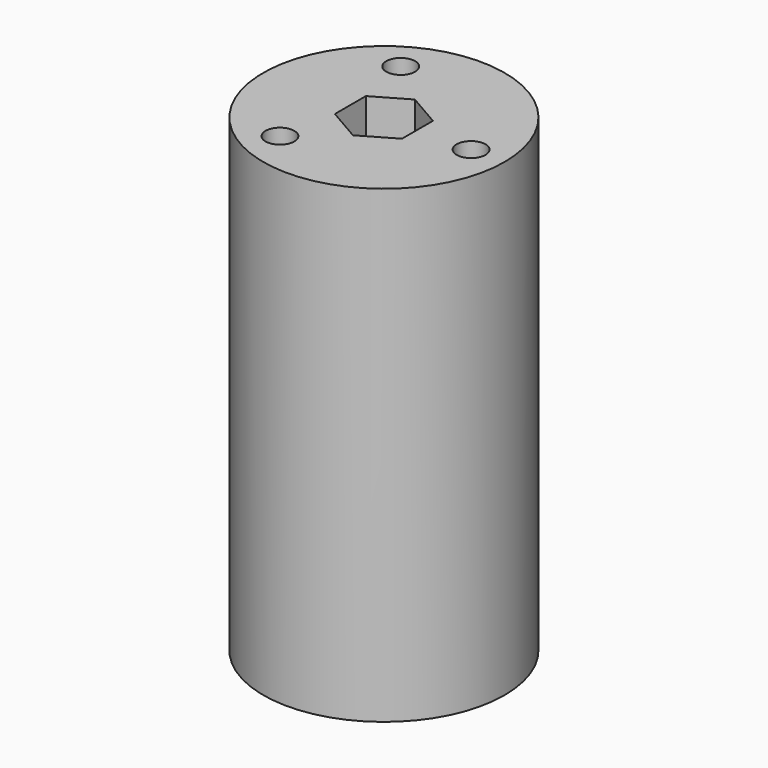
from build123d import *

# Parameters (mm, degrees)
F0_R     = 18
F0_R_2   = 3
F1_DEPTH = 70
F2_R     = 3
F3_DEPTH = 64
F4_D     = 4.3
F5_D     = 8
F5_DEPTH = 65
F5_TIP   = 2.4034424761


with BuildPart() as f1:
    # F0 (on Top) → F1 (new body)
    with BuildSketch(Plane.XY):
        Circle(F0_R)
        Circle(F0_R_2, mode=Mode.SUBTRACT)
    extrude(amount=F1_DEPTH)

    # F2 (on face) → F3 (cut)
    with BuildSketch(Plane.XY.offset(70)):
        Polygon((5, -2.8867513459), (5, 2.8867513459), (0, 5.7735026919), (-5, 2.8867513459), (-5, -2.8867513459), (0, -5.7735026919), align=None)
        Circle(F2_R, mode=Mode.SUBTRACT)
    extrude(amount=-F3_DEPTH, mode=Mode.SUBTRACT)

    # F4 (through all)
    with Locations(Plane(origin=(0, 0, 0), x_dir=(1, 0, 0), z_dir=(0, 0, -1))):
        with Locations((13, 0), (-6.5, -11.2583302492), (-6.5, 11.2583302492)):
            Hole(F4_D / 2)

    # F5
    with Locations(Plane(origin=(0, 0, 0), x_dir=(1, 0, 0), z_dir=(0, 0, -1))):
        with Locations((13, 0), (-6.5, -11.2583302492), (-6.5, 11.2583302492)):
            Hole(F5_D / 2, depth=F5_DEPTH)
            with Locations((0, 0, -(F5_DEPTH + F5_TIP / 2))):  # 118° drill point
                Cone(0, F5_D / 2, F5_TIP, mode=Mode.SUBTRACT)


solid = f1.part
